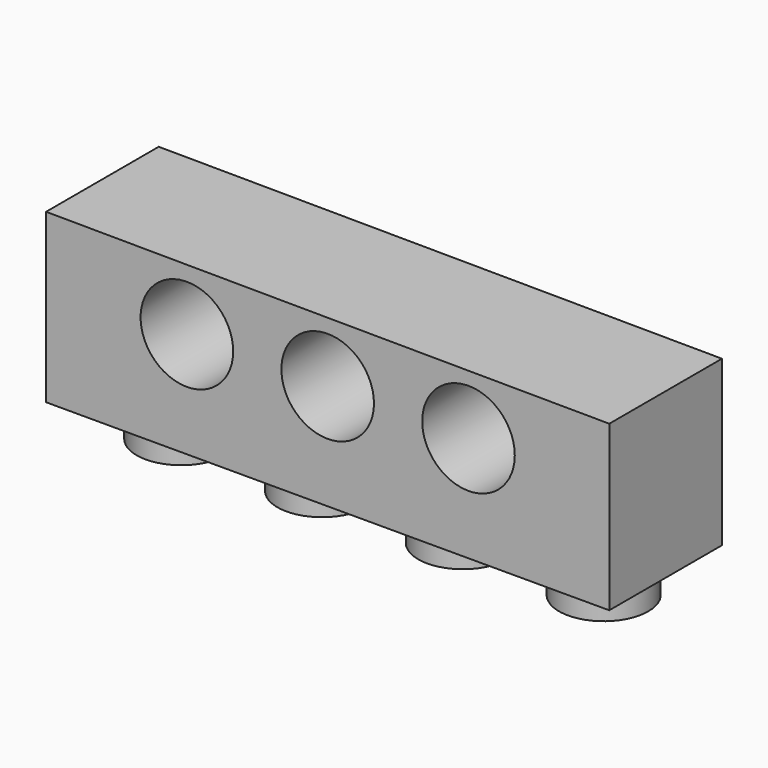
from build123d import *

# Parameters (mm, degrees)
F0_R     = 2.919268
F0_R_2   = 2.504925
F1_DEPTH = 7.62
F2_R     = 2.413
F2_R_2   = 1.5875
F3_DEPTH = 1.905


with BuildPart() as f1:
    # F0 (on Front) → F1 (new body)
    with BuildSketch(Plane.XZ):
        Polygon((30.479431, 8.89), (0, 9.076191), (0, 0), (30.479431, 0), align=None)
        with Locations((7.62, 5.715)):
            Circle(F0_R, mode=Mode.SUBTRACT)
        with Locations((15.24, 5.715)):
            Circle(F0_R, mode=Mode.SUBTRACT)
        with Locations((22.86, 5.715)):
            Circle(F0_R, mode=Mode.SUBTRACT)
        with Locations((15.24, 5.715)):
            Circle(F0_R)
        with Locations((15.24, 5.715)):
            Circle(F0_R_2, mode=Mode.SUBTRACT)
        with Locations((22.86, 5.715)):
            Circle(F0_R)
        with Locations((22.86, 5.715)):
            Circle(F0_R_2, mode=Mode.SUBTRACT)
        with Locations((7.62, 5.715)):
            Circle(F0_R)
        with Locations((7.62, 5.715)):
            Circle(F0_R_2, mode=Mode.SUBTRACT)
    extrude(amount=F1_DEPTH)

    # F2 (on Top) → F3 (join)
    with BuildSketch(Plane.XY):
        with Locations((4.267945, -3.81)):
            Circle(F2_R)
        with Locations((4.267945, -3.81)):
            Circle(F2_R_2, mode=Mode.SUBTRACT)
        with Locations((11.887945, -3.81)):
            Circle(F2_R)
        with Locations((11.887945, -3.81)):
            Circle(F2_R_2, mode=Mode.SUBTRACT)
        with Locations((19.507945, -3.81)):
            Circle(F2_R)
        with Locations((19.507945, -3.81)):
            Circle(F2_R_2, mode=Mode.SUBTRACT)
        with Locations((27.127945, -3.81)):
            Circle(F2_R)
        with Locations((27.127945, -3.81)):
            Circle(F2_R_2, mode=Mode.SUBTRACT)
    extrude(amount=-F3_DEPTH)


solid = f1.part
